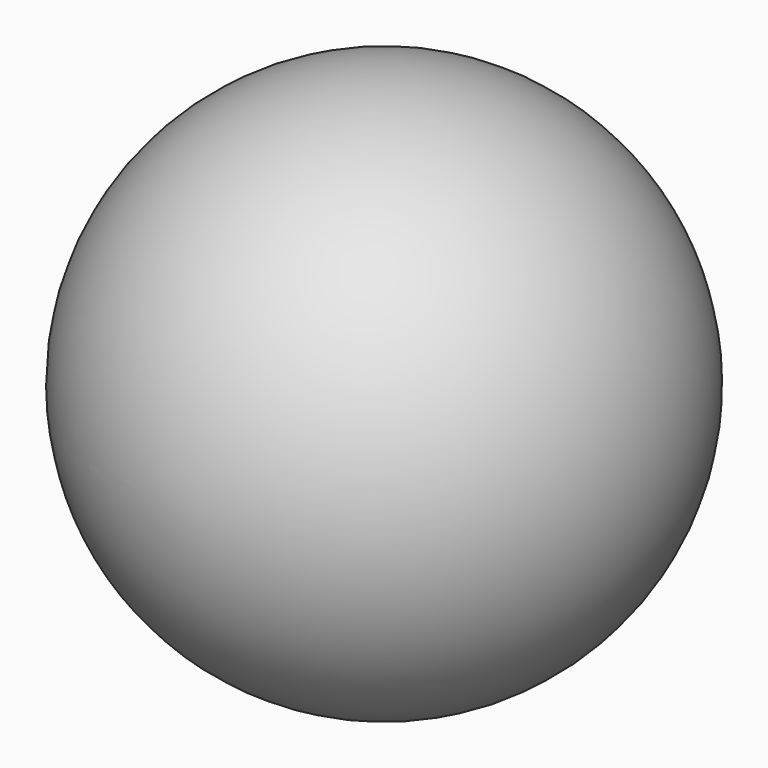
from build123d import *


with BuildPart() as f1:
    # F0 (on Top) → F1 (revolve)
    with BuildSketch(Plane.XY):
        with BuildLine():
            Line((0, 0), (0, 32.593044))
            ThreePointArc((0, 32.593044), (-32.593044, 0), (0, -32.593044))
            Line((0, -32.593044), (0, 0))
        make_face()
    revolve(axis=Axis((0, 27.53431, 0), (0, 1, 0)))


solid = f1.part
